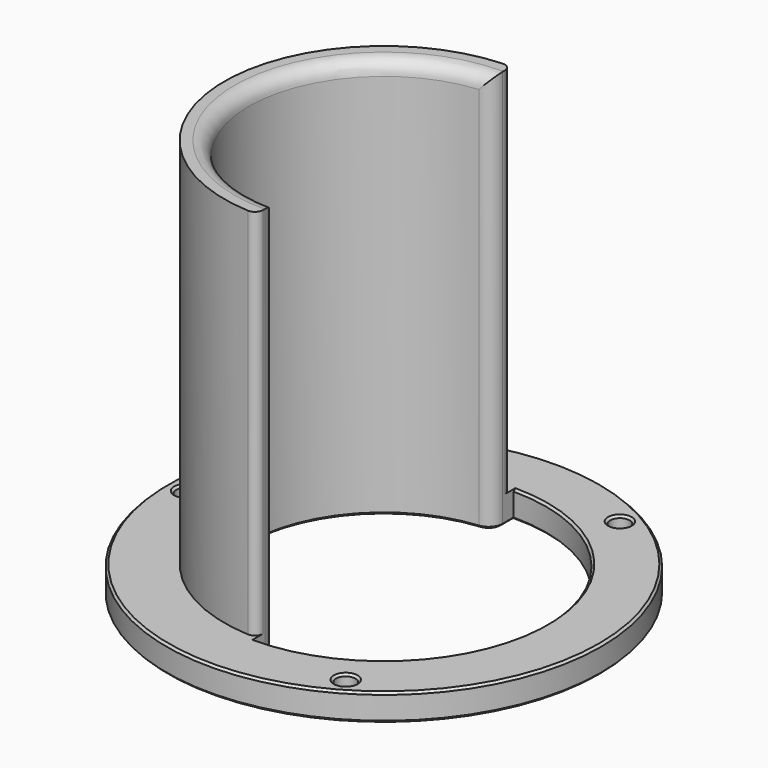
from build123d import *

# Parameters (mm, degrees)
SKETCH_R     = 40.2
SKETCH_R_2   = 25
PAD_DEPTH    = 5
PAD001_DEPTH = 74
POCKET_DEPTH = 5
FILLET_R     = 1.5
FILLET001_R  = 2.6
SKETCH003_R  = 1.8
HOLE_DEPTH   = 5
CHAMFER_SIZE = 0.4


with BuildPart() as part:
    # Sketch → Pad (new body)
    with BuildSketch(Plane.XY):
        Circle(SKETCH_R)
        Circle(SKETCH_R_2, mode=Mode.SUBTRACT)
    extrude(amount=PAD_DEPTH)

    # Sketch001 → Pad001 (join)
    with BuildSketch(Plane.XY):
        with BuildLine():
            ThreePointArc((0, 29.5), (-29.5, 0), (0, -29.5))
            Line((0, -25), (0, -29.5))
            ThreePointArc((0, 25), (-25, 0), (0, -25))
            Line((0, 29.5), (0, 25))
        make_face()
    extrude(amount=PAD001_DEPTH)

    # Sketch002 → Pocket (cut)
    with BuildSketch(Plane.XY):
        with BuildLine():
            ThreePointArc((0, -30), (30, 0), (0, 30))
            Line((0, 30), (0, 25))
            ThreePointArc((0, -25), (25, 0), (0, 25))
            Line((0, -25), (0, -30))
        make_face()
    extrude(amount=POCKET_DEPTH, mode=Mode.SUBTRACT)

    # Fillet
    fillet_edges = [part.edges().sort_by_distance(p)[0] for p in [
        (0, -29.5, 39.5),
        (0, 29.5, 39.5),
    ]]
    fillet(fillet_edges, radius=FILLET_R)

    # Fillet001
    fillet001_edges = [part.edges().sort_by_distance(p)[0] for p in [
        (-25, 0, 74),
        (0, -25, 39.5),
        (0, 25, 39.5),
    ]]
    fillet(fillet001_edges, radius=FILLET001_R)

    # Sketch003 → Hole (cut)
    with BuildSketch(Plane.XY):
        with Locations((-36.6, 0)):
            Circle(SKETCH003_R)
        with Locations((18.3, 31.69653)):
            Circle(SKETCH003_R)
        with Locations((18.3, -31.69653)):
            Circle(SKETCH003_R)
    extrude(amount=HOLE_DEPTH, mode=Mode.SUBTRACT)

    # Chamfer
    chamfer_edges = [part.edges().sort_by_distance(p)[0] for p in [
        (-40.2, 0, 0),
        (20.1, -31.69653, 0),
        (-34.8, 0, 0),
        (20.1, 31.69653, 0),
        (30, 0, 0),
        (0, -29.75, 0),
        (0, -28.488632, 0),
        (-0.676876, -25.727522, 0),
        (-25, 0, 0),
        (0, 29.75, 0),
        (0, 28.488632, 0),
        (-0.676876, 25.727522, 0),
        (-40.2, 0, 5),
        (-34.8, 0, 5),
        (20.1, 31.69653, 5),
        (20.1, -31.69653, 5),
        (30, 0, 5),
    ]]
    chamfer(chamfer_edges, length=CHAMFER_SIZE)


solid = part.part
